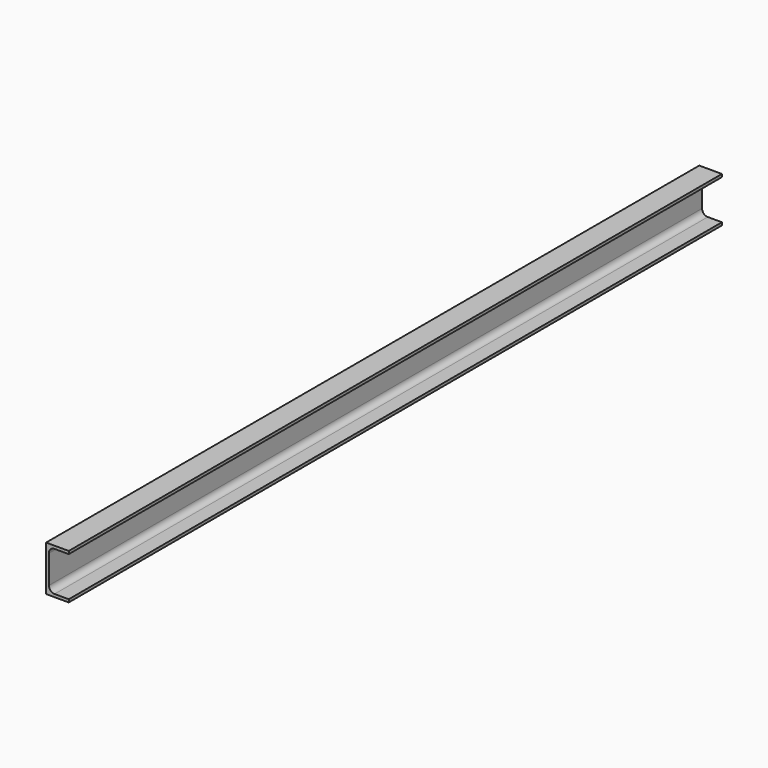
from build123d import *

# Parameters (mm, degrees)
F1_DEPTH = 914.4


with BuildPart() as f1:
    # F0 (on Front) → F1 (new body)
    with BuildSketch(Plane.XZ):
        with BuildLine():
            Line((0, 50.8), (0, 0))
            Line((0, 0), (25.4, 0))
            Line((25.4, 0), (25.4, 3.175))
            Line((25.4, 3.175), (9.525, 3.175))
            ThreePointArc((9.525, 3.175), (5.034872, 5.034872), (3.175, 9.525))
            Line((3.175, 9.525), (3.175, 41.275))
            ThreePointArc((3.175, 41.275), (5.034872, 45.765128), (9.525, 47.625))
            Line((9.525, 47.625), (25.4, 47.625))
            Line((25.4, 47.625), (25.4, 50.8))
            Line((25.4, 50.8), (0, 50.8))
        make_face()
    extrude(amount=F1_DEPTH)


solid = f1.part
